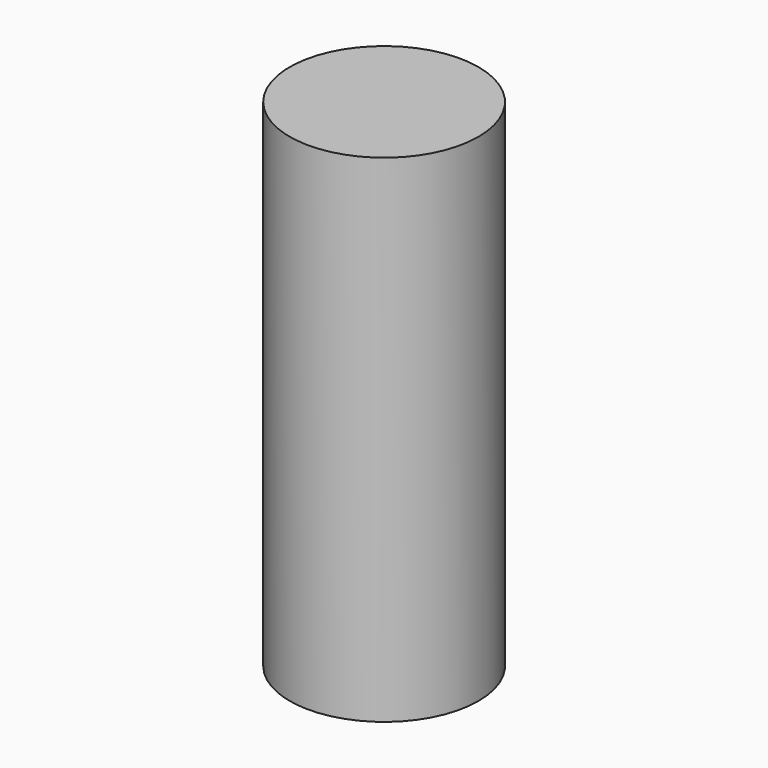
from build123d import *

# Parameters (mm, degrees)
CYLINDER_R     = 2.85115
CYLINDER_DEPTH = 15


with BuildPart() as part:
    # Cylinder → Cylinder (new body)
    with BuildSketch(Plane.XY.offset(-2.5)):
        Circle(CYLINDER_R)
    extrude(amount=CYLINDER_DEPTH)


solid = part.part
